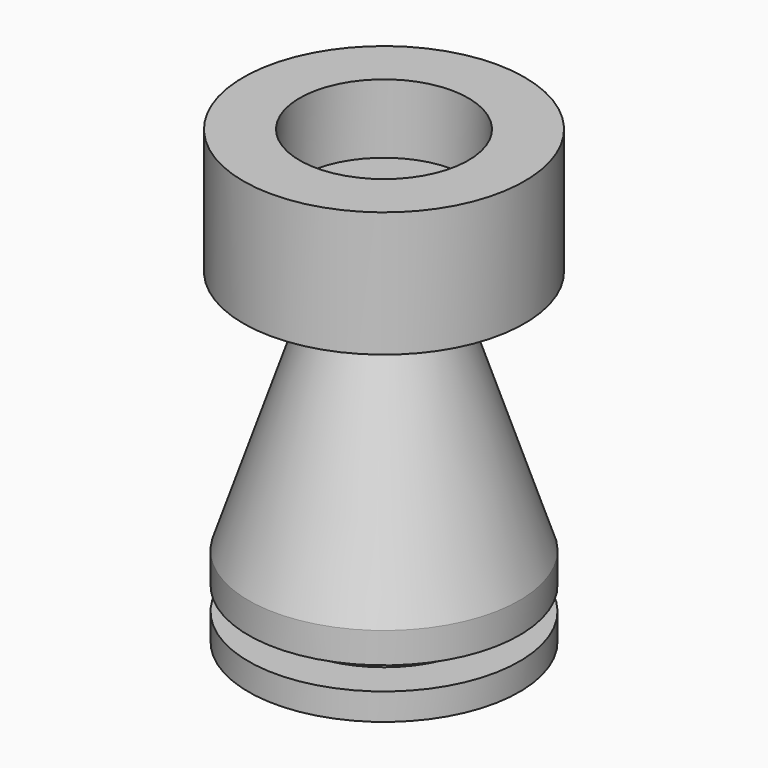
from build123d import *


with BuildPart() as f1:
    # F0 (on Right) → F1 (revolve)
    with BuildSketch(Plane.YZ):
        Polygon((0, 37.089907), (0, 0), (13.148932, 0), (13.148932, 2.604977), (9.179443, 2.604977), (9.179443, 4.837814), (13.148932, 4.837814), (13.148932, 7.814931), (5.209953, 31.631861), (13.645116, 31.631861), (13.645116, 43.788418), (8.187069, 43.788418), (8.187069, 37.089907), align=None)
    revolve(axis=Axis((0, 0, 18.544953), (0, 0, 1)))


solid = f1.part
